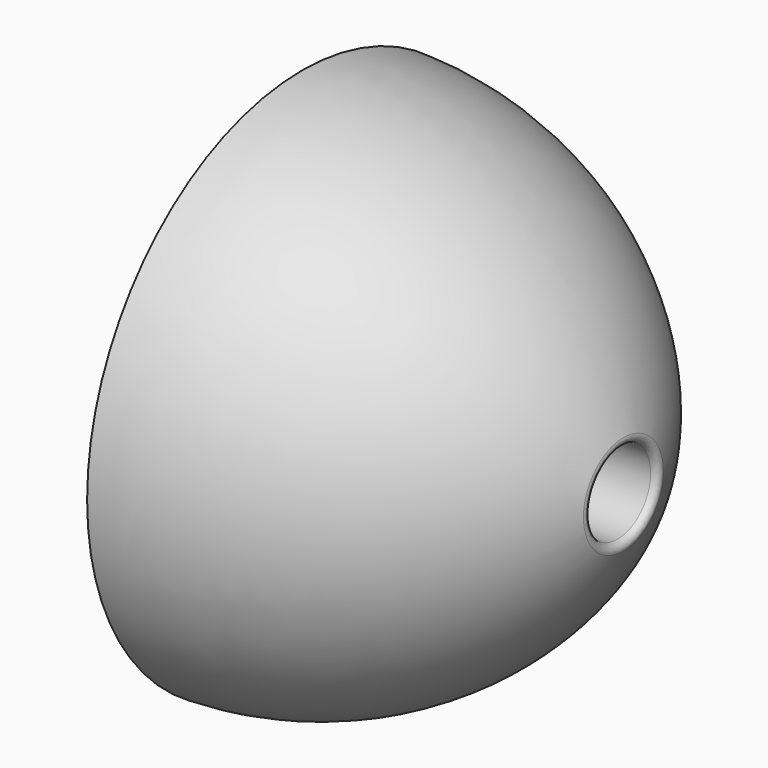
from build123d import *

# Parameters (mm, degrees)
F2_R     = 0.3
F3_R     = 3.65
F4_DEPTH = 5.3


with BuildPart() as f1:
    # F0 (on Front) → F1 (revolve)
    with BuildSketch(Plane.XZ):
        with BuildLine():
            ThreePointArc((3.0264748034, 1.9009072963), (-3.1498022821, 9.7897663652), (-12.6735251966, 12.9009072963))
            Line((-12.6735251966, 12.9009072963), (-12.6735251966, 9.5509072963))
            Line((-12.6735251966, 9.5509072963), (-9.6735251966, 9.5509072963))
            Line((-9.6735251966, 9.5509072963), (-9.6735251966, 3.5509072963))
            Line((-9.6735251966, 3.5509072963), (-4.3735251966, 3.5509072963))
            Line((-4.3735251966, 3.5509072963), (-4.3735251966, 1.9009072963))
            Line((-4.3735251966, 1.9009072963), (3.0264748034, 1.9009072963))
        make_face()
    revolve(axis=Axis((-7.0268781856, 0, -0.0990927037), (1, 0, 0)))

    # F2
    f2_edges = [f1.edges().sort_by_distance(p)[0] for p in [
        (-4.373525, 0, -2.099093),
        (3.026475, 0, -2.099093),
    ]]
    fillet(f2_edges, radius=F2_R)

    # F3 (on face) → F4 (cut)
    with BuildSketch(Plane(origin=(-9.6735251966, 0, 0), x_dir=(0, -1, 0), z_dir=(-1, 0, 0))):
        Polygon((3.825, -6.625094339), (7.65, 0), (3.825, 6.625094339), (-3.825, 6.625094339), (-7.65, 0), (-3.825, -6.625094339), align=None)
        with Locations((0, -0.0990927037)):
            Circle(F3_R, mode=Mode.SUBTRACT)
    extrude(amount=-F4_DEPTH, mode=Mode.SUBTRACT)


solid = f1.part
